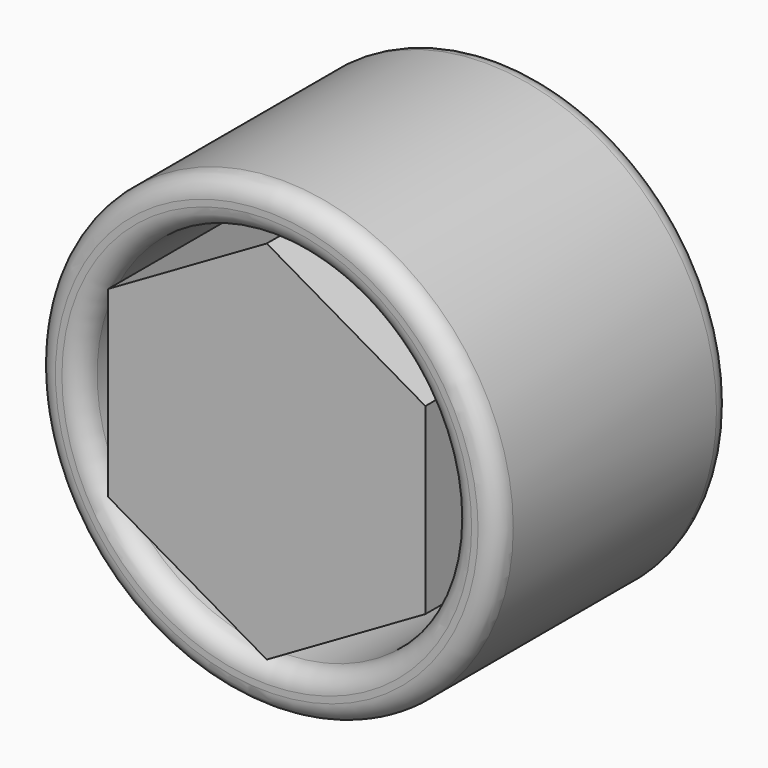
from build123d import *

# Parameters (mm, degrees)
F0_R     = 59.0811363779
F0_R_2   = 47.4281042848
F1_DEPTH = 75
F2_R     = 5
F5_DEPTH = 75


with BuildPart() as f1:
    # F0 (on Front) → F1 (new body)
    with BuildSketch(Plane.XZ):
        Circle(F0_R)
        Circle(F0_R_2, mode=Mode.SUBTRACT)
    extrude(amount=F1_DEPTH)

    # F2
    f2_edges = [f1.edges().sort_by_distance(p)[0] for p in [
        (-59.081136, -75, 0),
        (-47.428104, -75, 0),
        (-59.081136, 0, 0),
        (-47.428104, 0, 0),
    ]]
    fillet(f2_edges, radius=F2_R)


with BuildPart() as f5:
    # F4 (on Front) → F5 (new body)
    with BuildSketch(Plane.XZ):
        Polygon((39.2727144063, 23.9146705717), (-0.5921763534, 0.3075277073), (39.2727144063, -22.5982666016), align=None)
    extrude(amount=F5_DEPTH)


with BuildPart() as f5b:
    # F4 (on Front) → F5, piece 2 (new body)
    with BuildSketch(Plane.XZ):
        Polygon((-0.5921763534, 0.3075277073), (-40.1503182948, 23.0370685458), (-39.2727144063, -22.5982666016), align=None)
    extrude(amount=F5_DEPTH)


with BuildPart() as f5c:
    # F3 (on Front) → F5, piece 3 (new body)
    with BuildSketch(Plane.XZ):
        Polygon((40.5891165137, -23.4341373454), (40.5891165137, 23.4341373454), (0, 46.8682746907), (-40.5891165137, 23.4341373454), (-40.5891165137, -23.4341373454), (0, -46.8682746907), align=None)
    extrude(amount=F5_DEPTH)


solid = Compound([f1.part, f5c.part])
